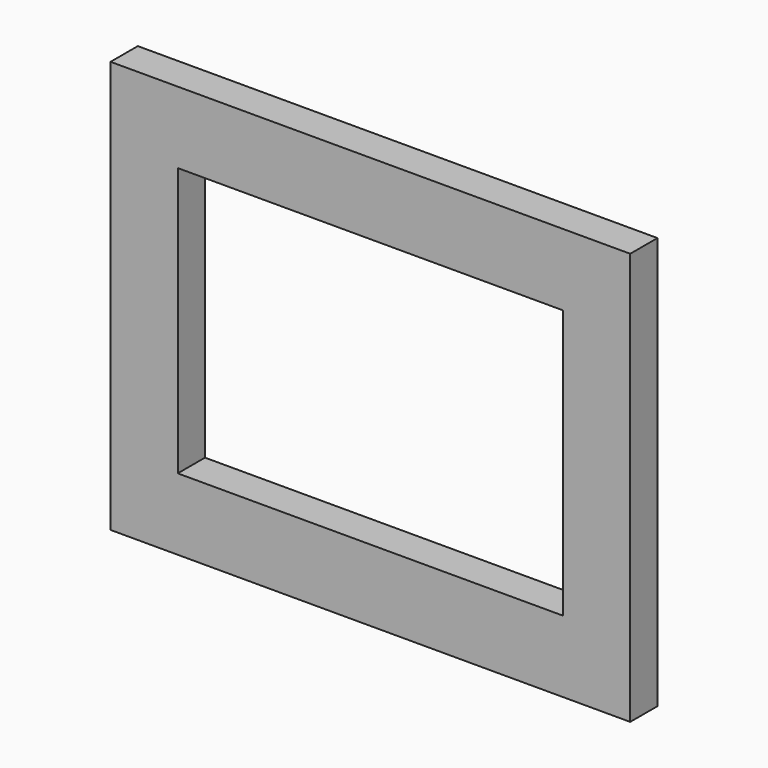
from build123d import *

# Parameters (mm, degrees)
F0_W     = 290
F0_H     = 230
F2_DEPTH = 19
F1_W     = 215
F1_H     = 150
F3_DEPTH = 25


with BuildPart() as f2:
    # F0 (on Front) → F2 (new body)
    with BuildSketch(Plane.XZ):
        Rectangle(F0_W, F0_H)
    extrude(amount=F2_DEPTH)

    # F1 (on face) → F3 (cut)
    with BuildSketch(Plane.XZ):
        Rectangle(F1_W, F1_H)
    extrude(amount=F3_DEPTH, mode=Mode.SUBTRACT)


solid = f2.part
